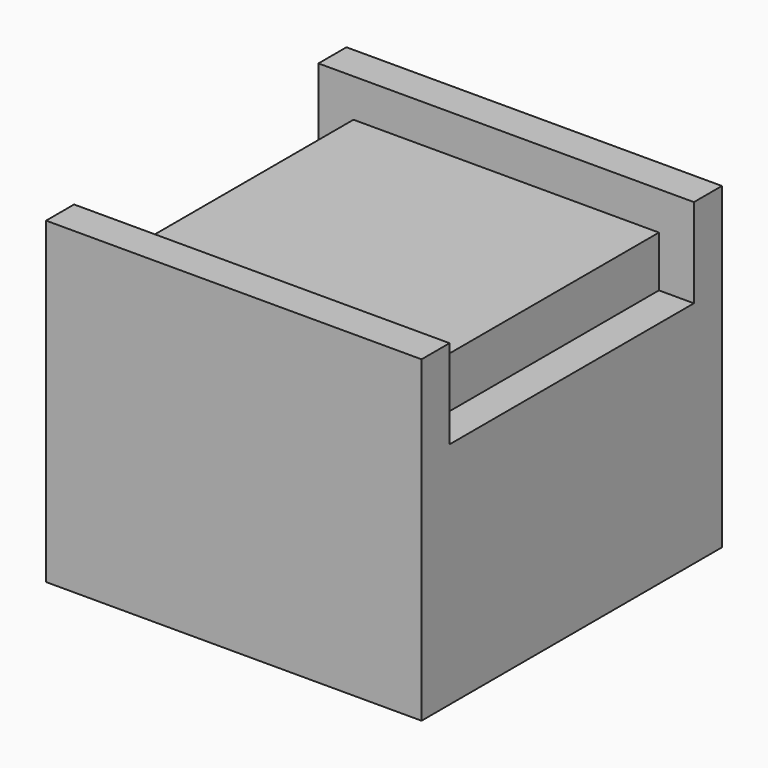
from build123d import *

# Parameters (mm, degrees)
SKETCH_W        = 14.75
SKETCH_H        = 14.75
PAD_DEPTH       = 12.5
SKETCH001_W     = 14.75
SKETCH001_H     = 12
POCKET_DEPTH    = 1.5
SKETCH002_W     = 1.375
SKETCH002_H     = 12
POCKET001_DEPTH = 2


with BuildPart() as part:
    # Sketch → Pad (new body)
    with BuildSketch(Plane.XY):
        with Locations((7.375, 7.375)):
            Rectangle(SKETCH_W, SKETCH_H)
    extrude(amount=PAD_DEPTH)

    # Sketch001 → Pocket (cut)
    with BuildSketch(Plane.XY.offset(12.5)):
        with Locations((7.375, 7.375)):
            Rectangle(SKETCH001_W, SKETCH001_H)
    extrude(amount=-POCKET_DEPTH, mode=Mode.SUBTRACT)

    # Sketch002 → Pocket001 (cut)
    with BuildSketch(Plane.XY.offset(11)):
        with Locations((0.6875, 7.375)):
            Rectangle(SKETCH002_W, SKETCH002_H)
        with Locations((14.0625, 7.375)):
            Rectangle(SKETCH002_W, SKETCH002_H)
    extrude(amount=-POCKET001_DEPTH, mode=Mode.SUBTRACT)


solid = part.part
